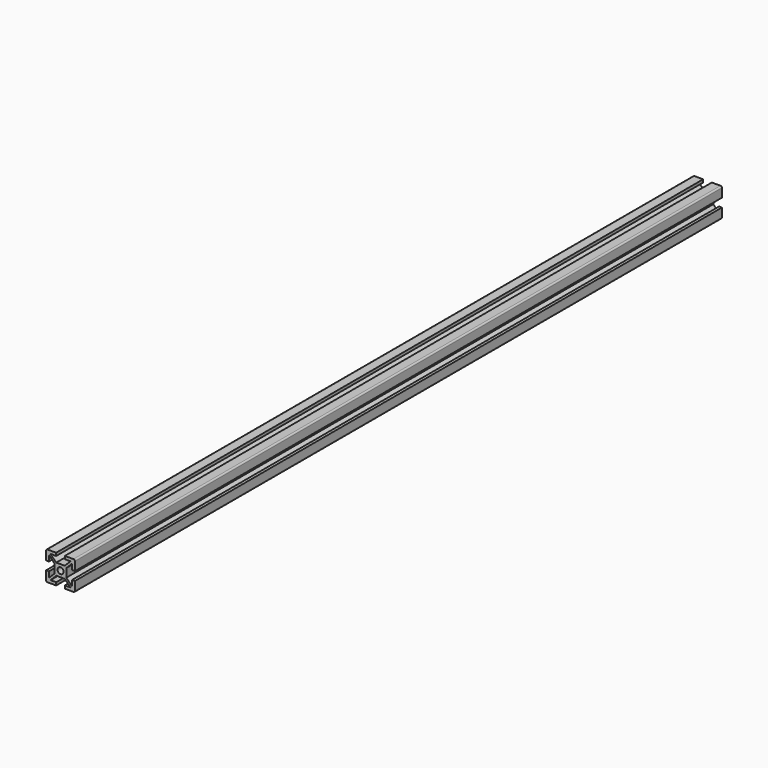
from build123d import *

# Parameters (mm, degrees)
F0_R     = 2.1
F1_DEPTH = 560


with BuildPart() as f1:
    # F0 (on Front) → F1 (new body)
    with BuildSketch(Plane.XZ):
        with BuildLine():
            ThreePointArc((9.944745, 8.840758), (9.651851, 9.547865), (8.944745, 9.840758))
            Line((8.944745, 9.840758), (2.944745, 9.840758))
            Line((2.944745, 9.840758), (2.944745, 7.840758))
            Line((2.944745, 7.840758), (6.884085, 7.840758))
            Line((6.884085, 7.840758), (2.884085, 3.840758))
            Line((2.884085, 3.840758), (-2.994595, 3.840758))
            Line((-2.994595, 3.840758), (-6.994595, 7.840758))
            Line((-6.994595, 7.840758), (-3.055255, 7.840758))
            Line((-3.055255, 7.840758), (-3.055255, 9.840758))
            Line((-3.055255, 9.840758), (-9.055255, 9.840758))
            ThreePointArc((-9.055255, 9.840758), (-9.762362, 9.547865), (-10.055255, 8.840758))
            Line((-10.055255, 8.840758), (-10.055255, 2.840758))
            Line((-10.055255, 2.840758), (-8.055255, 2.840758))
            Line((-8.055255, 2.840758), (-8.055255, 6.780098))
            Line((-8.055255, 6.780098), (-4.055255, 2.780098))
            Line((-4.055255, 2.780098), (-4.055255, -3.098581))
            Line((-4.055255, -3.098581), (-8.055255, -7.098581))
            Line((-8.055255, -7.098581), (-8.055255, -3.159242))
            Line((-8.055255, -3.159242), (-10.055255, -3.159242))
            Line((-10.055255, -3.159242), (-10.055255, -9.159242))
            ThreePointArc((-10.055255, -9.159242), (-9.762362, -9.866348), (-9.055255, -10.159242))
            Line((-9.055255, -10.159242), (-3.055255, -10.159242))
            Line((-3.055255, -10.159242), (-3.055255, -8.159242))
            Line((-3.055255, -8.159242), (-6.994595, -8.159242))
            Line((-6.994595, -8.159242), (-2.994595, -4.159242))
            Line((-2.994595, -4.159242), (2.884085, -4.159242))
            Line((2.884085, -4.159242), (6.884085, -8.159242))
            Line((6.884085, -8.159242), (2.944745, -8.159242))
            Line((2.944745, -8.159242), (2.944745, -10.159242))
            Line((2.944745, -10.159242), (8.944745, -10.159242))
            ThreePointArc((8.944745, -10.159242), (9.651851, -9.866348), (9.944745, -9.159242))
            Line((9.944745, -9.159242), (9.944745, -3.159242))
            Line((9.944745, -3.159242), (7.944745, -3.159242))
            Line((7.944745, -3.159242), (7.944745, -7.098581))
            Line((7.944745, -7.098581), (3.944745, -3.098581))
            Line((3.944745, -3.098581), (3.944745, 2.780098))
            Line((3.944745, 2.780098), (7.944745, 6.780098))
            Line((7.944745, 6.780098), (7.944745, 2.840758))
            Line((7.944745, 2.840758), (9.944745, 2.840758))
            Line((9.944745, 2.840758), (9.944745, 8.840758))
        make_face()
        with Locations((-0.055255, -0.159242)):
            Circle(F0_R, mode=Mode.SUBTRACT)
    extrude(amount=F1_DEPTH)


solid = f1.part
